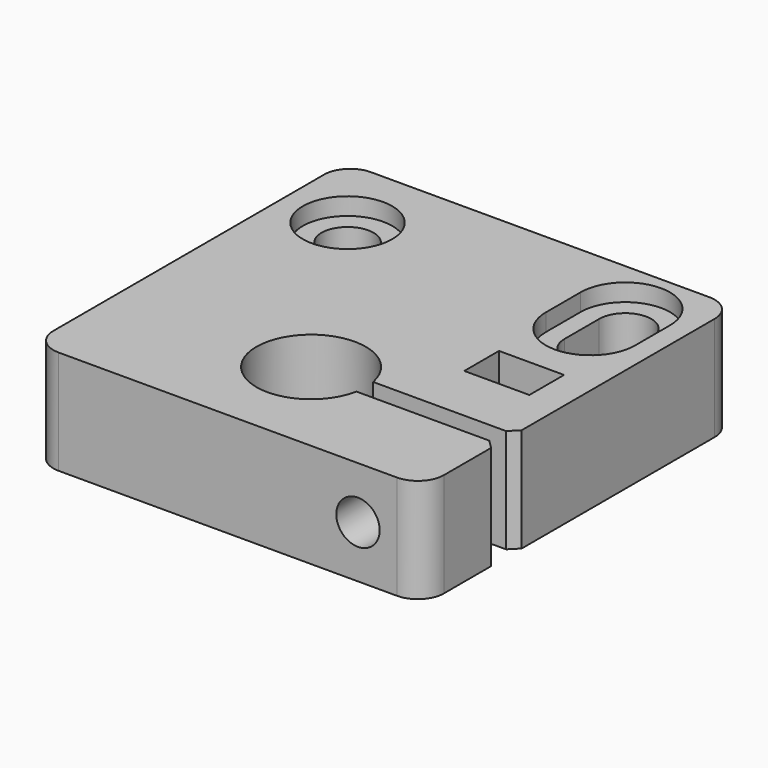
from build123d import *

# Parameters (mm, degrees)
F0_W      = 45
F0_H      = 45
F0_R      = 6.3
F0_R_2    = 3
F1_DEPTH  = 12
F3_D      = 5
F3_DEPTH  = 32
F3_TIP    = 1.5021515476
F5_DEPTH  = 25
F6_W      = 7.5
F6_H      = 5
F7_DEPTH  = 25
F8_R      = 3
F9_SIZE   = 1
F10_R     = 5.15
F10_R_2   = 3
F11_DEPTH = 2


with BuildPart() as f1:
    # F0 (on Top) → F1 (new body)
    with BuildSketch(Plane.XY):
        with Locations((0, 10.5)):
            Rectangle(F0_W, F0_H)
        Circle(F0_R, mode=Mode.SUBTRACT)
        with Locations((-15, 24)):
            Circle(F0_R_2, mode=Mode.SUBTRACT)
        with BuildLine():
            Line((12, 21.5), (12, 26.5))
            ThreePointArc((12, 26.5), (15, 29.5), (18, 26.5))
            Line((18, 26.5), (18, 21.5))
            ThreePointArc((18, 21.5), (15, 18.5), (12, 21.5))
        make_face(mode=Mode.SUBTRACT)
    extrude(amount=F1_DEPTH)

    # F3
    with Locations(Plane.XZ.offset(12)):
        with Locations((15, 6)):
            Hole(F3_D / 2, depth=F3_DEPTH)
            with Locations((0, 0, -(F3_DEPTH + F3_TIP / 2))):  # 118° drill point
                Cone(0, F3_D / 2, F3_TIP, mode=Mode.SUBTRACT)

    # F4 (on face) → F5 (cut)
    with BuildSketch(Plane.XY.offset(12)):
        with BuildLine():
            Line((22.5, 1.2), (6.1846584384, 1.2))
            ThreePointArc((6.1846584384, 1.2), (6.2710983154, 0.6027652271), (6.3, 0))
            ThreePointArc((6.3, 0), (6.2710983154, -0.6027652271), (6.1846584384, -1.2))
            Line((6.1846584384, -1.2), (22.5, -1.2))
            Line((22.5, -1.2), (22.5, 1.2))
        make_face()
        with BuildLine():
            Line((6.1846584384, 1.2), (0, 1.2))
            Line((0, 1.2), (0, -1.2))
            Line((0, -1.2), (6.1846584384, -1.2))
            ThreePointArc((6.1846584384, -1.2), (6.2710983154, -0.6027652271), (6.3, 0))
            ThreePointArc((6.3, 0), (6.2710983154, 0.6027652271), (6.1846584384, 1.2))
        make_face()
    extrude(amount=-F5_DEPTH, mode=Mode.SUBTRACT)

    # F6 (on face) → F7 (cut)
    with BuildSketch(Plane.XY.offset(12)):
        with Locations((15, 10.5)):
            Rectangle(F6_W, F6_H)
    extrude(amount=-F7_DEPTH, mode=Mode.SUBTRACT)

    # F8
    f8_edges = [f1.edges().sort_by_distance(p)[0] for p in [
        (-22.5, -12, 6),
        (22.5, -12, 6),
        (-22.5, 33, 6),
        (22.5, 33, 6),
    ]]
    fillet(f8_edges, radius=F8_R)

    # F9
    f9_edges = [f1.edges().sort_by_distance(p)[0] for p in [
        (22.5, -1.2, 6),
        (22.5, 1.2, 6),
    ]]
    chamfer(f9_edges, length=F9_SIZE)

    # F10 (on face) → F11 (cut)
    with BuildSketch(Plane.XY.offset(12)):
        with Locations((-15, 24)):
            Circle(F10_R)
        with Locations((-15, 24)):
            Circle(F10_R_2, mode=Mode.SUBTRACT)
        with BuildLine():
            Line((20.15, 21.5), (20.15, 26.5))
            ThreePointArc((20.15, 26.5), (15, 31.65), (9.85, 26.5))
            Line((9.85, 26.5), (9.85, 21.5))
            ThreePointArc((9.85, 21.5), (15, 16.35), (20.15, 21.5))
        make_face()
        with BuildLine():
            ThreePointArc((18, 21.5), (15, 18.5), (12, 21.5))
            Line((12, 21.5), (12, 26.5))
            ThreePointArc((12, 26.5), (15, 29.5), (18, 26.5))
            Line((18, 26.5), (18, 21.5))
        make_face(mode=Mode.SUBTRACT)
    extrude(amount=-F11_DEPTH, mode=Mode.SUBTRACT)


solid = f1.part
